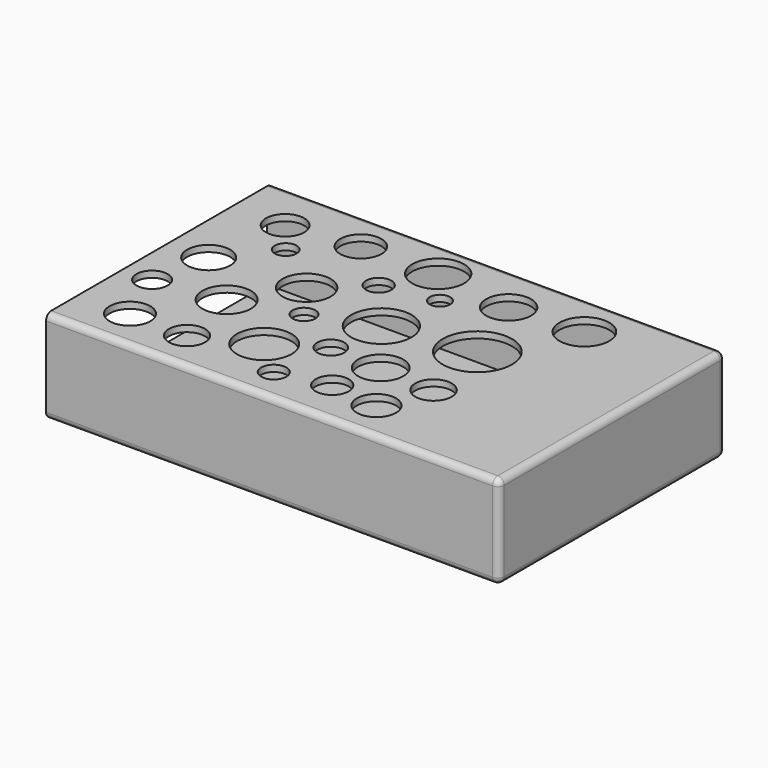
from build123d import *

# Parameters (mm, degrees)
SKETCH001_W    = 139
SKETCH001_H    = 84
PAD_DEPTH      = 25
THICKNESS_T    = 2
SKETCH002_R    = 5.947053
SKETCH002_R_2  = 6.391543
SKETCH002_R_3  = 7.479707
SKETCH002_R_4  = 6.690044
SKETCH002_R_5  = 7.551468
SKETCH002_R_6  = 6.341994
SKETCH002_R_7  = 8.509486
SKETCH002_R_8  = 9.409582
SKETCH002_R_9  = 8.069876
SKETCH002_R_10 = 7.030828
SKETCH002_R_11 = 5.146618
SKETCH002_R_12 = 6.982672
SKETCH002_R_13 = 7.752117
SKETCH002_R_14 = 10.787845
SKETCH002_R_15 = 5.65876
SKETCH002_R_16 = 3.93116
SKETCH002_R_17 = 3.377122
SKETCH002_R_18 = 5.622868
SKETCH002_R_19 = 3.905324
SKETCH002_R_20 = 4.228889
SKETCH002_R_21 = 3.528588
SKETCH002_R_22 = 3.16034
SKETCH002_R_23 = 6.106178
SKETCH002_R_24 = 4.85306
POCKET_DEPTH   = 5


with BuildPart() as part:
    # Sketch001 → Pad (new body)
    with BuildSketch(Plane.XY):
        with Locations((-29.136072, -13.413577)):
            Rectangle(SKETCH001_W, SKETCH001_H)
    extrude(amount=PAD_DEPTH)

    # Thickness
    thickness_openings = [part.faces().sort_by_distance(p)[0] for p in [
        (-98.636072, -13.413577, 12.5),
    ]]
    offset(amount=THICKNESS_T, openings=thickness_openings)

    # Sketch002 (on Face14 of Thickness) → Pocket (cut)
    with BuildSketch(Plane.XY.offset(27)):
        with Locations((-82.334571, 15.216334)):
            Circle(SKETCH002_R)
        with Locations((-61.021297, 18.021215)):
            Circle(SKETCH002_R_2)
        with Locations((-57.73288, -7.189993)):
            Circle(SKETCH002_R_3)
        with Locations((-86.232513, -9.656311)):
            Circle(SKETCH002_R_4)
        with Locations((-68.946266, -24.274019)):
            Circle(SKETCH002_R_5)
        with Locations((-82.723099, -44.663734)):
            Circle(SKETCH002_R_6)
        with Locations((-47.27071, -36.765015)):
            Circle(SKETCH002_R_7)
        with Locations((-30.922209, -11.599332)):
            Circle(SKETCH002_R_8)
        with Locations((-37.351395, 18.526012)):
            Circle(SKETCH002_R_9)
        with Locations((-17.329054, -28.866299)):
            Circle(SKETCH002_R_10)
        with Locations((-20.819183, -43.377895)):
            Circle(SKETCH002_R_11)
        with Locations((-12.920469, 15.403262)):
            Circle(SKETCH002_R_12)
        with Locations((9.489837, 16.872791)):
            Circle(SKETCH002_R_13)
        with Locations((-4.286991, -7.558129)):
            Circle(SKETCH002_R_14)
        with Locations((0, -29.968445)):
            Circle(SKETCH002_R_15)
        with Locations((-44.858665, 4.777251)):
            Circle(SKETCH002_R_16)
        with Locations((-74.249245, 5.328322)):
            Circle(SKETCH002_R_17)
        with Locations((-64.697304, -45.003048)):
            Circle(SKETCH002_R_18)
        with Locations((-36.225178, -46.839958)):
            Circle(SKETCH002_R_19)
        with Locations((-33.469814, -28.103462)):
            Circle(SKETCH002_R_20)
        with Locations((-49.450947, -18.551527)):
            Circle(SKETCH002_R_21)
        with Locations((-28.142773, 7.716309)):
            Circle(SKETCH002_R_22)
        with Locations((-5.732456, -45.003048)):
            Circle(SKETCH002_R_23)
        with Locations((-89.679298, -27.368698)):
            Circle(SKETCH002_R_24)
    extrude(amount=-POCKET_DEPTH, mode=Mode.SUBTRACT)


solid = part.part
